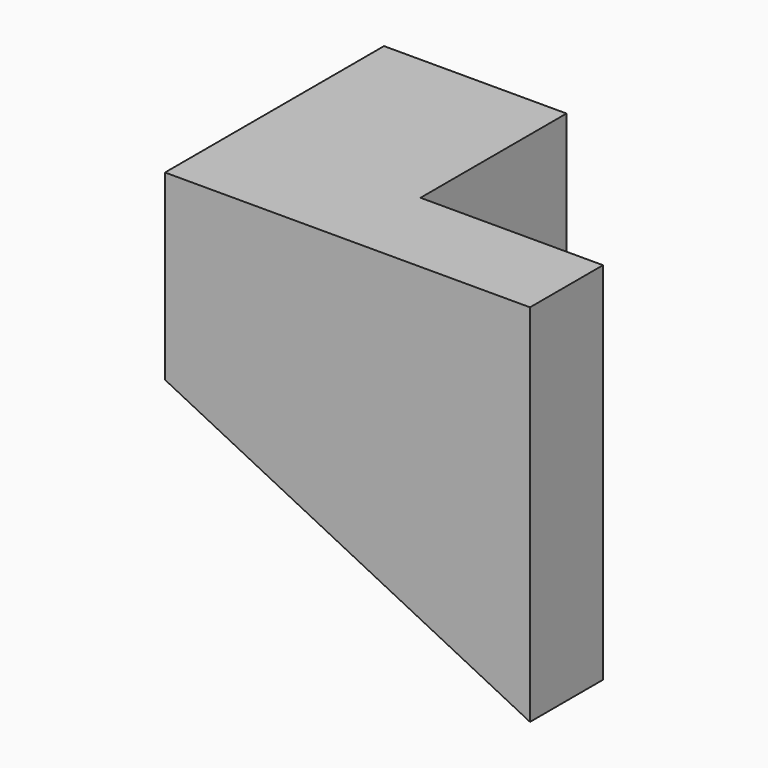
from build123d import *

# Parameters (mm, degrees)
F0_W     = 20
F0_H     = 20
F1_DEPTH = 20
F2_W     = 20
F2_H     = 20
F3_DEPTH = 10


with BuildPart() as f1:
    # F0 (on Front) → F1 (new body)
    with BuildSketch(Plane.XZ):
        with Locations((10, 10)):
            Rectangle(F0_W, F0_H)
    extrude(amount=F1_DEPTH)

    # F2 (on face) → F3 (join)
    with BuildSketch(Plane.XZ.offset(20)):
        Polygon((40, 20), (20, 20), (20, 0), (0, 0), (40, -20), align=None)
        with Locations((10, 10)):
            Rectangle(F2_W, F2_H)
    extrude(amount=F3_DEPTH)


solid = f1.part
